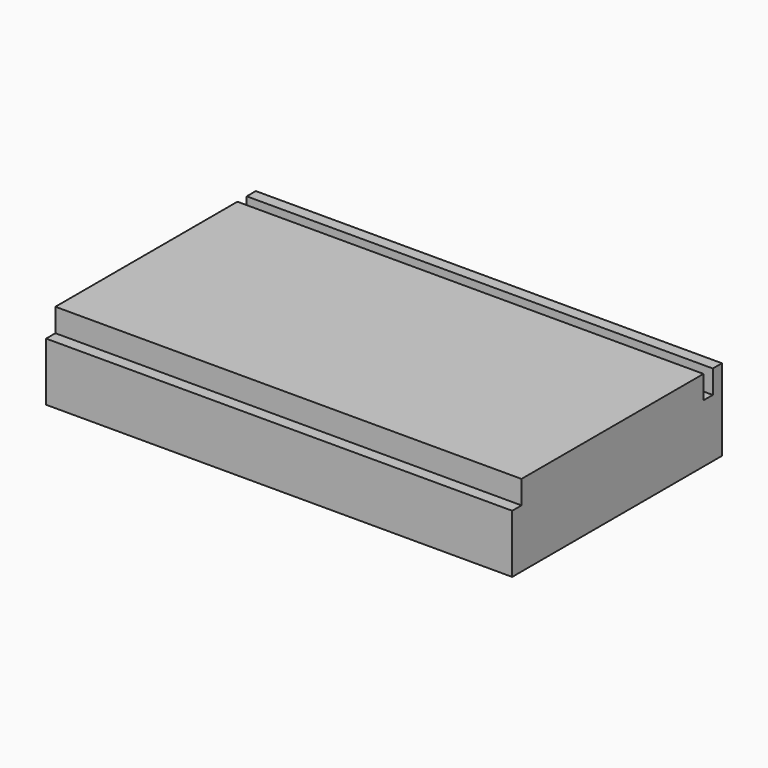
from build123d import *

# Parameters (mm, degrees)
F0_W     = 3.909087
F0_H     = 8
F1_DEPTH = 160


with BuildPart() as f1:
    # F0 (on Right) → F1 (new body)
    with BuildSketch(Plane.YZ):
        Polygon((-41.136362, 0), (-45.136362, 0), (-45.136362, -20), (44.863638, -20), (44.863638, 0), (40.954551, 0), (36.954551, 0), (36.954551, 8), (-41.136362, 8), align=None)
        with Locations((42.909094, 4)):
            Rectangle(F0_W, F0_H)
    extrude(amount=F1_DEPTH)


solid = f1.part
